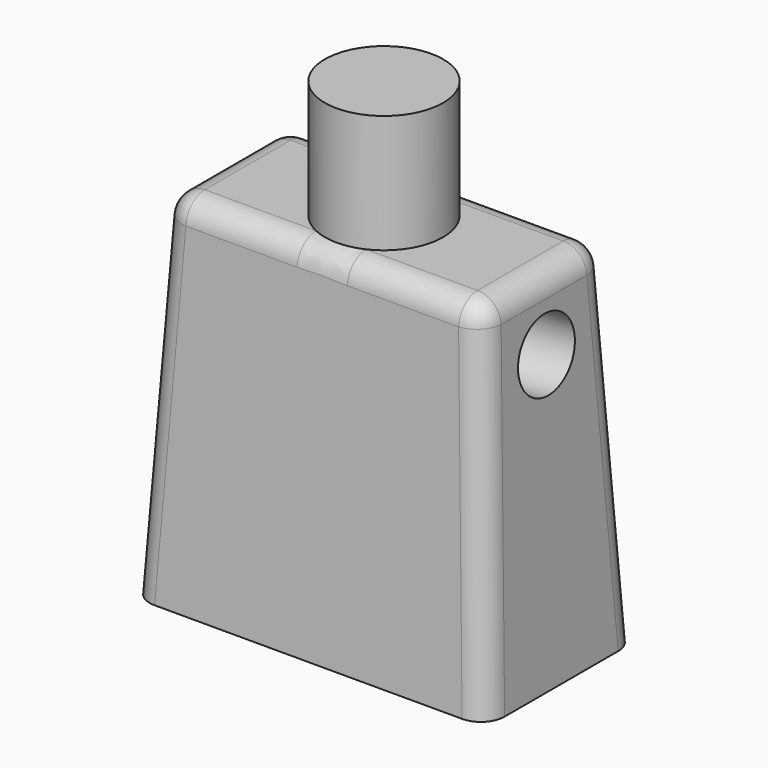
from build123d import *

# Parameters (mm, degrees)
F0_W     = 15
F0_H     = 8
F1_DEPTH = 15
F1_TAPER = 3
F2_R     = 2.5
F3_DEPTH = 5
F4_R     = 1
F5_R     = 1.5
F6_DEPTH = 3
F7_R     = 1.5
F8_DEPTH = 3


with BuildPart() as f1:
    # F0 (on Top) → F1 (new body)
    with BuildSketch(Plane.XY):
        Rectangle(F0_W, F0_H)
    extrude(amount=F1_DEPTH, taper=F1_TAPER)

    # F2 (on face) → F3 (join)
    with BuildSketch(Plane.XY.offset(15)):
        Circle(F2_R)
    extrude(amount=F3_DEPTH)

    # F4
    f4_edges = [f1.edges().sort_by_distance(p)[0] for p in [
        (-7.106942, -3.606942, 7.5),
        (-6.713883, 0, 15),
        (0, -3.213883, 15),
        (7.106942, 3.606942, 7.5),
        (0, 3.213883, 15),
        (-7.106942, 3.606942, 7.5),
        (7.106942, -3.606942, 7.5),
        (6.713883, 0, 15),
    ]]
    fillet(f4_edges, radius=F4_R)

    # F5 (on face) → F6 (cut)
    with BuildSketch(Plane(origin=(7.4794571076, 0, 0.3919817373), x_dir=(0, 1, 0), z_dir=(0.9986295348, 0, 0.0523359562))):
        with Locations((0, 11.6777304862)):
            Circle(F5_R)
    extrude(amount=-F6_DEPTH, mode=Mode.SUBTRACT)

    # F7 (on face) → F8 (cut)
    with BuildSketch(Plane(origin=(-7.4794571076, 0, 0.3919817373), x_dir=(0, -1, 0), z_dir=(-0.9986295348, 0, 0.0523359562))):
        with Locations((0, 11.6777304862)):
            Circle(F7_R)
    extrude(amount=-F8_DEPTH, mode=Mode.SUBTRACT)


solid = f1.part
